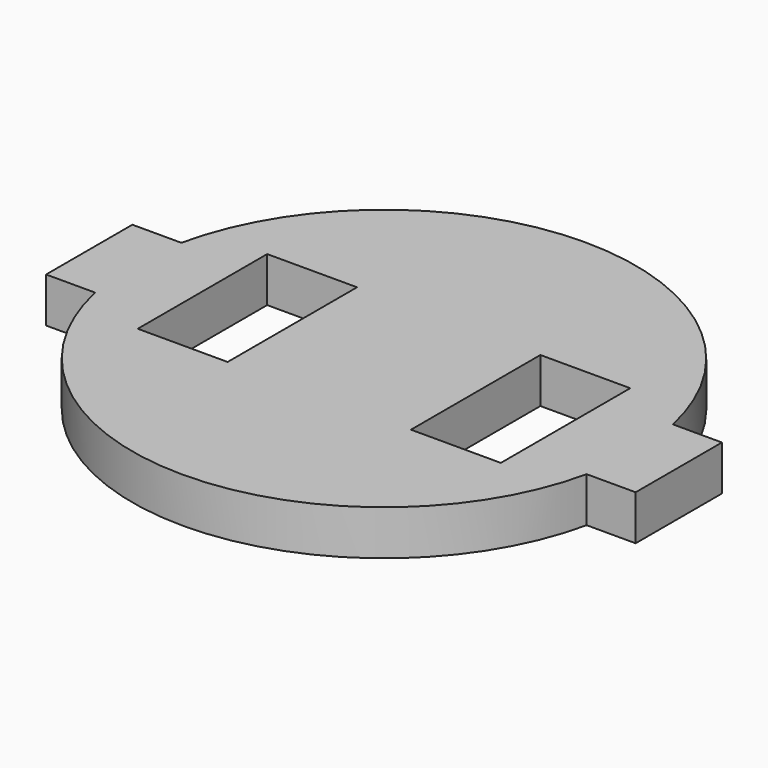
from build123d import *

# Parameters (mm, degrees)
F0_W     = 2.5
F0_H     = 4.5
F1_DEPTH = 1.25


with BuildPart() as f1:
    # F0 (on Top) → F1 (new body)
    with BuildSketch(Plane.XY):
        with BuildLine():
            Line((8.2, 1.5), (6.837397, 1.5))
            ThreePointArc((6.837397, 1.5), (0, 7), (-6.837397, 1.5))
            Line((-6.837397, 1.5), (-8.2, 1.5))
            Line((-8.2, 1.5), (-8.2, -1.5))
            Line((-8.2, -1.5), (-6.837397, -1.5))
            ThreePointArc((-6.837397, -1.5), (0, -7), (6.837397, -1.5))
            Line((6.837397, -1.5), (8.2, -1.5))
            Line((8.2, -1.5), (8.2, 1.5))
        make_face()
        with Locations((-3.8, 0)):
            Rectangle(F0_W, F0_H, mode=Mode.SUBTRACT)
        with Locations((3.8, 0)):
            Rectangle(F0_W, F0_H, mode=Mode.SUBTRACT)
    extrude(amount=F1_DEPTH)


solid = f1.part
